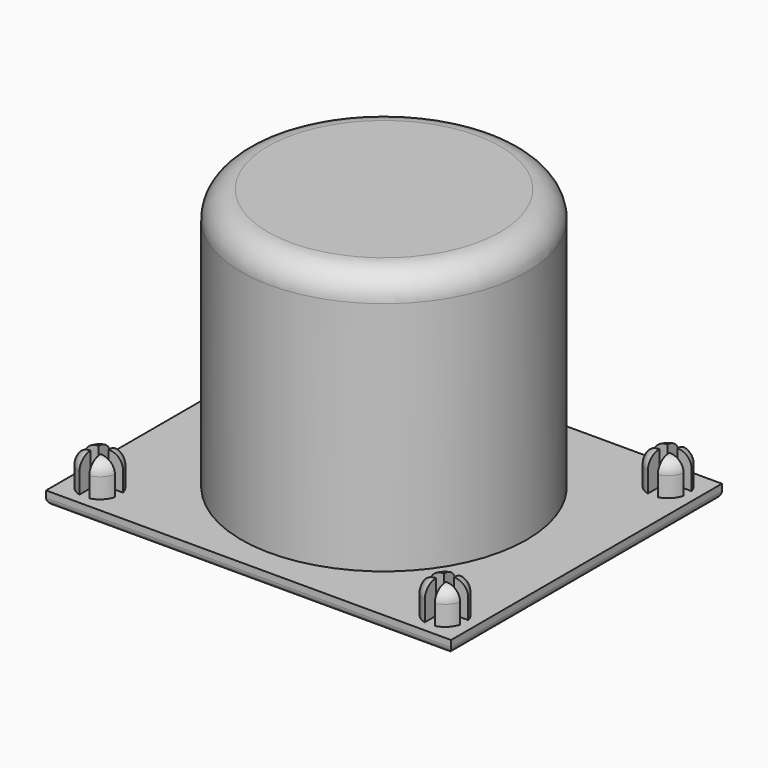
from build123d import *

# Parameters (mm, degrees)
SKETCH001_W                = 61
SKETCH001_H                = 51
PAD_DEPTH                  = 2
SKETCH002_R                = 3
PAD001_DEPTH               = 5
SKETCH002_MIRRORED_2_R     = 3
PAD001_MIRRORED_2_DEPTH    = 5
FILLET_R                   = 2
FILLET001_R                = 1
POCKET_DEPTH               = 5
POCKET_MIRRORED002_2_DEPTH = 5
SKETCH090_R                = 21.5
PAD040_DEPTH               = 41.5
SKETCH091_R                = 20
POCKET027_DEPTH            = 40
FILLET039_R                = 4
FILLET040_R                = 2


with BuildPart() as part:
    # Sketch001 → Pad (new body)
    with BuildSketch(Plane.XY):
        Rectangle(SKETCH001_W, SKETCH001_H)
    extrude(amount=PAD_DEPTH)

    # Sketch002 (on DatumPlane) → Pad001 (join)
    with BuildSketch(Plane.XY.offset(2)):
        with Locations((-26, 21)):
            Circle(SKETCH002_R)
    pad001 = extrude(amount=PAD001_DEPTH)

    # Sketch002 Mirrored 2 → Pad001 Mirrored 2 (add)
    with BuildSketch(Plane(origin=(0, 0, 2), x_dir=(-1, 0, 0), z_dir=(0, 0, -1))):
        with Locations((-26, 21)):
            Circle(SKETCH002_MIRRORED_2_R)
    pad001_mirrored_2 = extrude(amount=-PAD001_MIRRORED_2_DEPTH)

    # Mirrored001: Pad001, Pad001 Mirrored 2 across Sketch002 H_Axis
    add(pad001.mirror(Plane(origin=(0, 0, 2), x_dir=(0, 0, 1), z_dir=(0, 1, 0))))
    add(pad001_mirrored_2.mirror(Plane(origin=(0, 0, 2), x_dir=(0, 0, 1), z_dir=(0, 1, 0))))

    # Fillet
    fillet_edges = [part.edges().sort_by_distance(p)[0] for p in [
        (29, 21, 7),
        (29, -21, 7),
        (-29, -21, 7),
        (-29, 21, 7),
    ]]
    fillet(fillet_edges, radius=FILLET_R)

    # Fillet001
    fillet001_edges = [part.edges().sort_by_distance(p)[0] for p in [
        (0, 25.5, 0),
        (30.5, 0, 0),
        (0, -25.5, 0),
        (-30.5, 0, 0),
    ]]
    fillet(fillet001_edges, radius=FILLET001_R)

    # Sketch003 (on DatumPlane) → Pocket (cut)
    with BuildSketch(Plane.XY.offset(7)):
        Polygon((-29.265642, -20.28286), (-26.765642, -20.28286), (-26.765642, -17.78286), (-25.265642, -17.78286), (-25.265642, -20.28286), (-22.765642, -20.28286), (-22.765642, -21.78286), (-25.265642, -21.78286), (-25.265642, -24.28286), (-26.765642, -24.28286), (-26.765642, -21.78286), (-29.265642, -21.78286), align=None)
    pocket = extrude(amount=-POCKET_DEPTH, mode=Mode.SUBTRACT)

    # Sketch003 Mirrored002 2 → Pocket Mirrored002 2 (cut)
    with BuildSketch(Plane(origin=(0, 0, 7), x_dir=(-1, 0, 0), z_dir=(0, 0, -1))):
        Polygon((-29.265642, -20.28286), (-26.765642, -20.28286), (-26.765642, -17.78286), (-25.265642, -17.78286), (-25.265642, -20.28286), (-22.765642, -20.28286), (-22.765642, -21.78286), (-25.265642, -21.78286), (-25.265642, -24.28286), (-26.765642, -24.28286), (-26.765642, -21.78286), (-29.265642, -21.78286), align=None)
    pocket_mirrored002_2 = extrude(amount=POCKET_MIRRORED002_2_DEPTH, mode=Mode.SUBTRACT)

    # Mirrored003: Pocket, Pocket Mirrored002 2 across Sketch003 H_Axis
    add(pocket.mirror(Plane(origin=(0, 0, 7), x_dir=(0, 0, 1), z_dir=(0, 1, 0))), mode=Mode.SUBTRACT)
    add(pocket_mirrored002_2.mirror(Plane(origin=(0, 0, 7), x_dir=(0, 0, 1), z_dir=(0, 1, 0))), mode=Mode.SUBTRACT)


with BuildPart() as part_1:
    # Body placement: moved
    add(part.part.moved(Location((0, -65, 0))))

    # Sketch090 (on DatumPlane) → Pad040 (new body)
    with BuildSketch(Plane(origin=(0, -65, 0), x_dir=(1, 0, 0), z_dir=(0, 0, -1))):
        Circle(SKETCH090_R)
    extrude(amount=-PAD040_DEPTH)

    # Sketch091 (on DatumPlane) → Pocket027 (cut)
    with BuildSketch(Plane(origin=(0, -65, 0), x_dir=(1, 0, 0), z_dir=(0, 0, -1))):
        Circle(SKETCH091_R)
    extrude(amount=-POCKET027_DEPTH, mode=Mode.SUBTRACT)

    # Fillet039
    fillet039_edges = [part_1.edges().sort_by_distance(p)[0] for p in [
        (-20, -65, 40),
        (-21.5, -65, 41.5),
    ]]
    fillet(fillet039_edges, radius=FILLET039_R)

    # Fillet040
    fillet040_edges = [part_1.edges().sort_by_distance(p)[0] for p in [
        (-20, -65, 0),
    ]]
    fillet(fillet040_edges, radius=FILLET040_R)


with BuildPart() as part_2:
    # Body038 placement: moved
    add(part_1.part.moved(Location((150, -61, 0))))


solid = part_2.part
